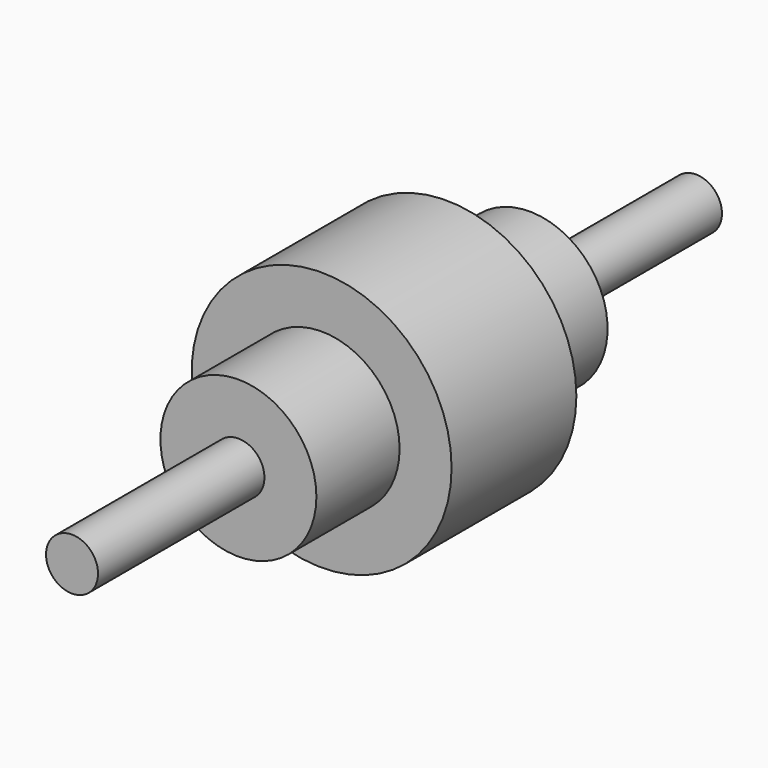
from build123d import *

# Parameters (mm, degrees)
F0_R     = 50
F1_DEPTH = 30
F2_R     = 30
F3_DEPTH = 40
F4_R     = 30
F5_DEPTH = 40
F6_R     = 10
F7_DEPTH = 80
F8_R     = 10
F9_DEPTH = 80


with BuildPart() as f1:
    # F0 (on Front) → F1 (new body, symmetric)
    with BuildSketch(Plane.XZ):
        Circle(F0_R)
    extrude(amount=F1_DEPTH, both=True)

    # F2 (on face) → F3 (join)
    with BuildSketch(Plane.XZ.offset(30)):
        Circle(F2_R)
    extrude(amount=F3_DEPTH)

    # F4 (on face) → F5 (join)
    with BuildSketch(Plane(origin=(0, 30, 0), x_dir=(-1, 0, 0), z_dir=(0, 1, 0))):
        Circle(F4_R)
    extrude(amount=F5_DEPTH)

    # F6 (on face) → F7 (join)
    with BuildSketch(Plane.XZ.offset(70)):
        Circle(F6_R)
    extrude(amount=F7_DEPTH)

    # F8 (on face) → F9 (join)
    with BuildSketch(Plane(origin=(0, 70, 0), x_dir=(-1, 0, 0), z_dir=(0, 1, 0))):
        Circle(F8_R)
    extrude(amount=F9_DEPTH)


solid = f1.part
